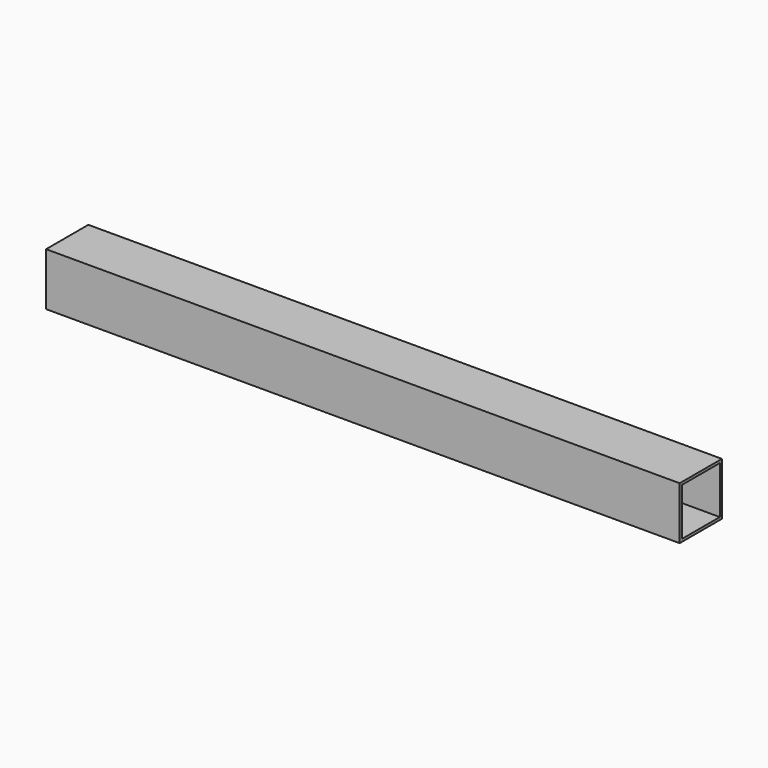
from build123d import *

# Parameters (mm, degrees)
F0_W     = 50
F0_H     = 50
F0_W_2   = 45
F0_H_2   = 45
F1_DEPTH = 600


with BuildPart() as f1:
    # F0 (on Right) → F1 (new body)
    with BuildSketch(Plane.YZ):
        Rectangle(F0_W, F0_H)
        Rectangle(F0_W_2, F0_H_2, mode=Mode.SUBTRACT)
    extrude(amount=-F1_DEPTH)


solid = f1.part
